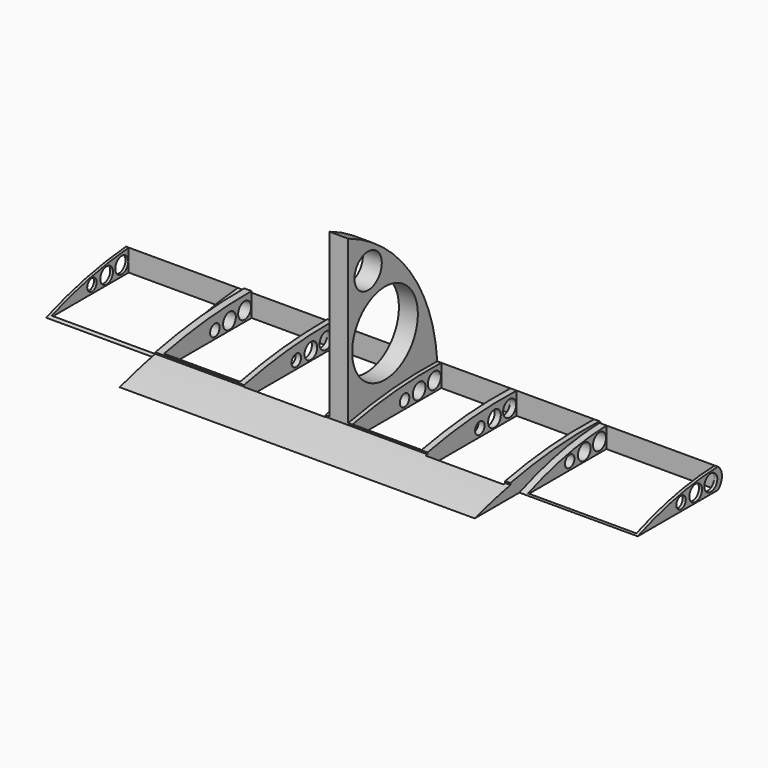
from build123d import *

# Parameters (mm, degrees)
F1_DEPTH  = 76.2
F3_DEPTH  = 25.4
F5_DEPTH  = 101.6
F7_DEPTH  = 76.2
F10_DEPTH = 37.338
F12_DEPTH = 37.338
F13_R     = 8.807305
F14_DEPTH = 101.6
F15_R     = 3.664816
F16_DEPTH = 116.84
F18_R     = 1.744402
F19_DEPTH = 225.298
F20_R     = 1.703793
F21_DEPTH = 213.106
F22_R     = 1.272162
F23_DEPTH = 254
F25_W     = 23.404523
F25_H     = 20.684985
F26_DEPTH = 209.804
F27_W     = 23.239702
F27_H     = 21.014627
F28_DEPTH = 223.774
F29_W     = 16.646877
F29_H     = 24.311038
F30_DEPTH = 495.046
F31_W     = 16.317241
F31_H     = 23.486935
F32_DEPTH = 242.062
F33_W     = 17.470982
F33_H     = 23.981396
F34_DEPTH = 243.84
F35_W     = 14.833849
F35_H     = 23.816576
F36_DEPTH = 196.85


with BuildPart() as f1:
    # F0 (on Right) → F1 (new body)
    with BuildSketch(Plane.YZ):
        with BuildLine():
            Line((-33.445477, 0), (0, 0))
            ThreePointArc((0, 0), (1.073615, 2.388963), (0, 4.777925))
            ThreePointArc((0, 4.777925), (-16.903377, 3.653432), (-33.445477, 0))
        make_face()
    extrude(amount=F1_DEPTH)

    # F2 (on Right) → F3 (join)
    with BuildSketch(Plane.YZ):
        with BuildLine():
            Line((-21.430658, 0), (0, 0))
            ThreePointArc((0, 0), (1.05119, 2.362129), (0, 4.724259))
            ThreePointArc((0, 4.724259), (-10.876771, 3.094479), (-21.430658, 0))
        make_face()
    extrude(amount=-F3_DEPTH)

    # F4 (on Right) → F5 (join)
    with BuildSketch(Plane.YZ):
        with BuildLine():
            Line((-21.460172, 0), (0, 0))
            ThreePointArc((0, 0), (1.120071, 2.226999), (0, 4.453998))
            ThreePointArc((0, 4.453998), (-10.919842, 3.14128), (-21.460172, 0))
        make_face()
    extrude(amount=F5_DEPTH)

    # F6 (on Right) → F7 (join)
    with BuildSketch(Plane.YZ):
        with BuildLine():
            Line((-23.889625, 1.37669), (0, 4.777925))
            ThreePointArc((0, 4.777925), (-7.260951, 24.620526), (-23.889625, 37.656531))
            Line((-23.889625, 37.656531), (-23.889625, 1.37669))
        make_face()
    extrude(amount=F7_DEPTH)

    # F9 (on offset) → F10 (cut)
    with BuildSketch(Plane.YZ.offset(78.74)):
        with BuildLine():
            ThreePointArc((-34.90315, 0), (-17.651622, 3.850321), (0, 4.777925))
            ThreePointArc((0, 4.777925), (6.961202, 43.833079), (-31.663876, 52.881103))
            ThreePointArc((-31.663876, 52.881103), (-51.316385, 27.545169), (-34.90315, 0))
        make_face()
    extrude(amount=-F10_DEPTH, mode=Mode.SUBTRACT)

    # F11 (on Right) → F12 (cut)
    with BuildSketch(Plane.YZ):
        with BuildLine():
            ThreePointArc((-34.41726, 0), (-17.405812, 3.881122), (0, 5.101853))
            ThreePointArc((0, 5.101853), (12.801217, 34.08098), (-9.798795, 56.282341))
            ThreePointArc((-9.798795, 56.282341), (-55.391799, 42.699829), (-34.41726, 0))
        make_face()
    extrude(amount=F12_DEPTH, mode=Mode.SUBTRACT)

    # F13 (on offset) → F14 (cut)
    with BuildSketch(Plane.YZ.offset(78.74)):
        with Locations((-14.009847, 15.791448)):
            Circle(F13_R)
    extrude(amount=-F14_DEPTH, mode=Mode.SUBTRACT)

    # F15 (on offset) → F16 (cut)
    with BuildSketch(Plane.YZ.offset(78.74)):
        with Locations((-18.544829, 29.396387)):
            Circle(F15_R)
    extrude(amount=-F16_DEPTH, mode=Mode.SUBTRACT)

    # F18 (on offset) → F19 (cut)
    with BuildSketch(Plane.YZ.offset(159.258)):
        with Locations((-1.862581, 2.186508)):
            Circle(F18_R)
    extrude(amount=-F19_DEPTH, mode=Mode.SUBTRACT)

    # F20 (on offset) → F21 (cut)
    with BuildSketch(Plane.YZ.offset(159.258)):
        with Locations((-5.93065, 1.889733)):
            Circle(F20_R)
    extrude(amount=-F21_DEPTH, mode=Mode.SUBTRACT)

    # F22 (on offset) → F23 (cut)
    with BuildSketch(Plane.YZ.offset(159.258)):
        with Locations((-9.853734, 1.698055)):
            Circle(F22_R)
    extrude(amount=-F23_DEPTH, mode=Mode.SUBTRACT)

    # F25 (on offset) → F26 (cut)
    with BuildSketch(Plane.XY.offset(-90.932)):
        with Locations((-13.10903, -10.342492)):
            Rectangle(F25_W, F25_H)
    extrude(amount=F26_DEPTH, mode=Mode.SUBTRACT)

    # F27 (on offset) → F28 (cut)
    with BuildSketch(Plane.XY.offset(-90.932)):
        with Locations((89.32697, -10.507313)):
            Rectangle(F27_W, F27_H)
    extrude(amount=F28_DEPTH, mode=Mode.SUBTRACT)

    # F29 (on offset) → F30 (cut)
    with BuildSketch(Plane.XY.offset(-90.932)):
        with Locations((66.746547, -12.155519)):
            Rectangle(F29_W, F29_H)
    extrude(amount=F30_DEPTH, mode=Mode.SUBTRACT)

    # F31 (on offset) → F32 (cut)
    with BuildSketch(Plane.XY.offset(-90.932)):
        with Locations((9.718621, -11.743467)):
            Rectangle(F31_W, F31_H)
    extrude(amount=F32_DEPTH, mode=Mode.SUBTRACT)

    # F33 (on offset) → F34 (cut)
    with BuildSketch(Plane.XY.offset(-90.932)):
        with Locations((27.766475, -11.990698)):
            Rectangle(F33_W, F33_H)
    extrude(amount=F34_DEPTH, mode=Mode.SUBTRACT)

    # F35 (on offset) → F36 (cut)
    with BuildSketch(Plane.XY.offset(-90.932)):
        with Locations((49.687614, -11.908288)):
            Rectangle(F35_W, F35_H)
    extrude(amount=F36_DEPTH, mode=Mode.SUBTRACT)


solid = f1.part
